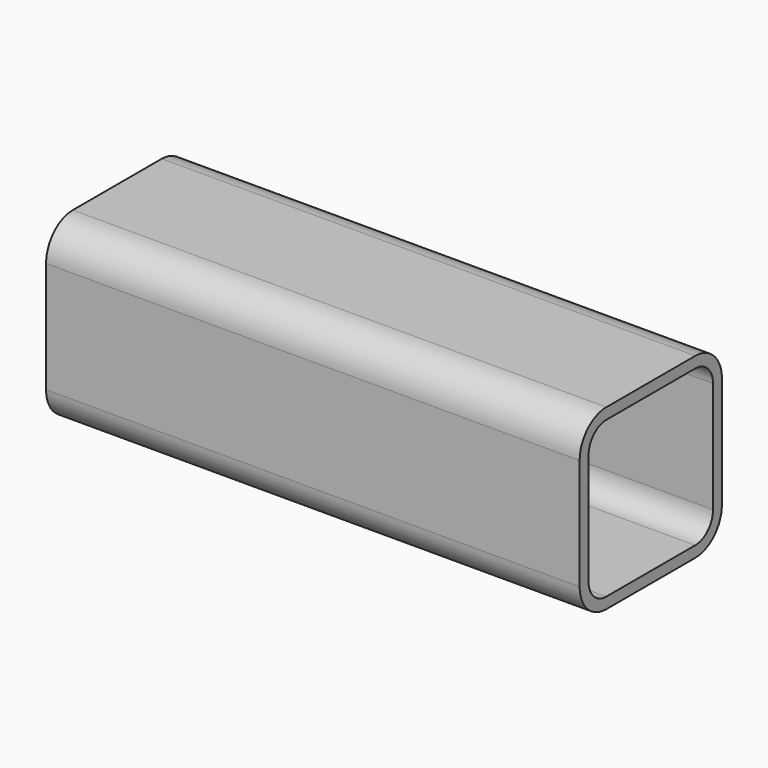
from build123d import *

# Parameters (mm, degrees)
SKETCH_W     = 101.6
SKETCH_H     = 101.6
PAD_DEPTH    = 304.8
FILLET_R     = 19.05
SKETCH001_W  = 88.9
SKETCH001_H  = 88.9
POCKET_DEPTH = 304.801
FILLET001_R  = 12.7


with BuildPart() as part:
    # Sketch → Pad (new body)
    with BuildSketch(Plane.YZ):
        Rectangle(SKETCH_W, SKETCH_H)
    extrude(amount=PAD_DEPTH)

    # Fillet
    fillet_edges = [part.edges().sort_by_distance(p)[0] for p in [
        (152.4, 50.8, 50.8),
        (152.4, -50.8, 50.8),
        (152.4, 50.8, -50.8),
        (152.4, -50.8, -50.8),
    ]]
    fillet(fillet_edges, radius=FILLET_R)

    # Sketch001 → Pocket (cut, through all)
    with BuildSketch(Plane.YZ):
        Rectangle(SKETCH001_W, SKETCH001_H)
    extrude(amount=POCKET_DEPTH, mode=Mode.SUBTRACT)

    # Fillet001
    fillet001_edges = [part.edges().sort_by_distance(p)[0] for p in [
        (152.4, -44.45, -44.45),
        (152.4, -44.45, 44.45),
        (152.4, 44.45, 44.45),
        (152.4, 44.45, -44.45),
    ]]
    fillet(fillet001_edges, radius=FILLET001_R)


solid = part.part
